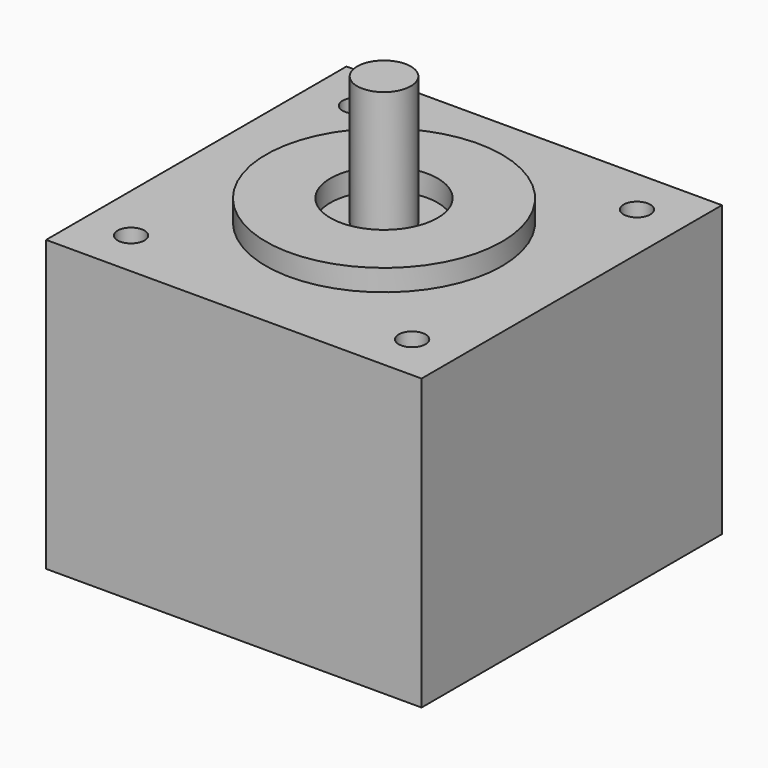
from build123d import *

# Parameters (mm, degrees)
F0_W     = 35
F0_H     = 35
F1_DEPTH = 27
F2_R     = 11
F2_R_2   = 5
F3_DEPTH = 2
F4_R     = 2.5
F5_DEPTH = 12
F7_D     = 2.5
F7_DEPTH = 13.5
F7_TIP   = 0.7510757738


with BuildPart() as f1:
    # F0 (on Top) → F1 (new body)
    with BuildSketch(Plane.XY):
        Rectangle(F0_W, F0_H)
    extrude(amount=F1_DEPTH)

    # F2 (on face) → F3 (join)
    with BuildSketch(Plane.XY.offset(27)):
        Circle(F2_R)
        Circle(F2_R_2, mode=Mode.SUBTRACT)
    extrude(amount=F3_DEPTH)

    # F4 (on face) → F5 (join)
    with BuildSketch(Plane.XY.offset(27)):
        Circle(F4_R)
    extrude(amount=F5_DEPTH)

    # F7
    with Locations(Plane.XY.offset(27)):
        with Locations((-13.1, 13.1), (13.1, 13.1), (13.1, -13.1), (-13.1, -13.1)):
            Hole(F7_D / 2, depth=F7_DEPTH)
            with Locations((0, 0, -(F7_DEPTH + F7_TIP / 2))):  # 118° drill point
                Cone(0, F7_D / 2, F7_TIP, mode=Mode.SUBTRACT)


solid = f1.part
